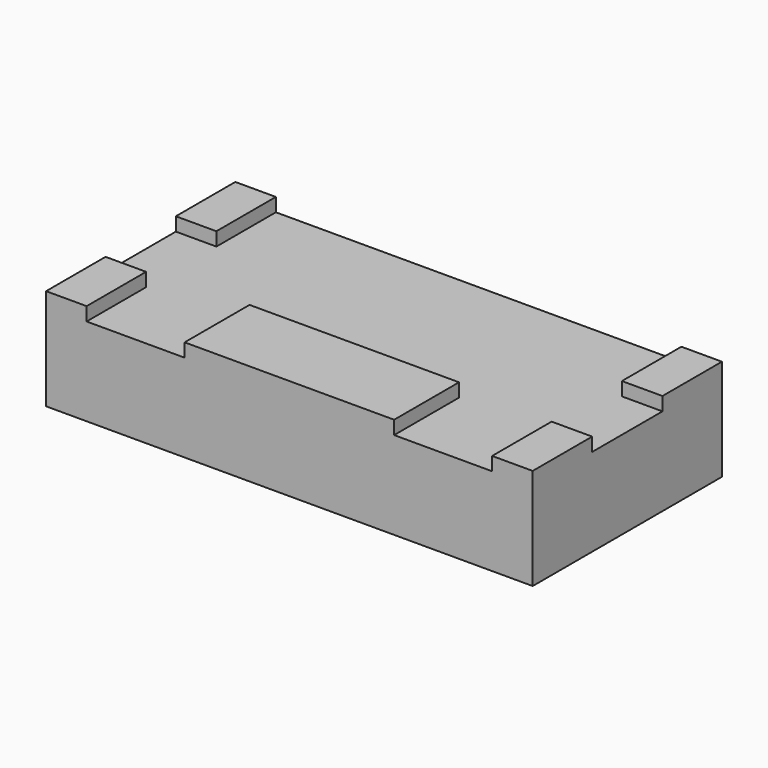
from build123d import *

# Parameters (mm, degrees)
BOX024_W     = 3.1
BOX024_H     = 1.2
BOX024_DEPTH = 0.2
BOX023_W     = 0.6
BOX023_H     = 1.1
BOX023_DEPTH = 0.2
BOX022_W     = 0.6
BOX022_H     = 1.1
BOX022_DEPTH = 0.2
BOX021_W     = 0.6
BOX021_H     = 1.1
BOX021_DEPTH = 0.2
BOX020_W     = 0.6
BOX020_H     = 1.1
BOX020_DEPTH = 0.2
BOX025_W     = 7.2
BOX025_H     = 3.5
BOX025_DEPTH = 0.2
BOX_W        = 7.2
BOX_H        = 3.5
BOX_DEPTH    = 1.5


with BuildPart() as cube024:
    # Box024 → Box024 (new body)
    with BuildSketch(Plane(origin=(2.05, 0, 1.3), x_dir=(1, 0, 0), z_dir=(0, 0, 1))):
        with Locations((1.55, 0.6)):
            Rectangle(BOX024_W, BOX024_H)
    extrude(amount=BOX024_DEPTH)


with BuildPart() as cube023:
    # Box023 → Box023 (new body)
    with BuildSketch(Plane(origin=(0, 2.4, 1.3), x_dir=(1, 0, 0), z_dir=(0, 0, 1))):
        with Locations((0.3, 0.55)):
            Rectangle(BOX023_W, BOX023_H)
    extrude(amount=BOX023_DEPTH)


with BuildPart() as cube022:
    # Box022 → Box022 (new body)
    with BuildSketch(Plane.XY.offset(1.3)):
        with Locations((0.3, 0.55)):
            Rectangle(BOX022_W, BOX022_H)
    extrude(amount=BOX022_DEPTH)


with BuildPart() as cube021:
    # Box021 → Box021 (new body)
    with BuildSketch(Plane(origin=(6.6, 2.4, 1.3), x_dir=(1, 0, 0), z_dir=(0, 0, 1))):
        with Locations((0.3, 0.55)):
            Rectangle(BOX021_W, BOX021_H)
    extrude(amount=BOX021_DEPTH)


with BuildPart() as cube020:
    # Box020 → Box020 (new body)
    with BuildSketch(Plane(origin=(6.6, 0, 1.3), x_dir=(1, 0, 0), z_dir=(0, 0, 1))):
        with Locations((0.3, 0.55)):
            Rectangle(BOX020_W, BOX020_H)
    extrude(amount=BOX020_DEPTH)


with BuildPart() as silver_top001:
    # Box025 → Box025 (new body)
    with BuildSketch(Plane.XY.offset(1.3)):
        with Locations((3.6, 1.75)):
            Rectangle(BOX025_W, BOX025_H)
    extrude(amount=BOX025_DEPTH)

    # Cut005: cut Cube020
    add(cube020.part, mode=Mode.SUBTRACT)

    # Cut009: cut Cube021
    add(cube021.part, mode=Mode.SUBTRACT)

    # Cut006: cut Cube022
    add(cube022.part, mode=Mode.SUBTRACT)

    # Cut008: cut Cube023
    add(cube023.part, mode=Mode.SUBTRACT)

    # Cut007: cut Cube024
    add(cube024.part, mode=Mode.SUBTRACT)


with BuildPart() as plastic_body:
    # Box → Box (new body)
    with BuildSketch(Plane.XY):
        with Locations((3.6, 1.75)):
            Rectangle(BOX_W, BOX_H)
    extrude(amount=BOX_DEPTH)

    # Cut010: cut Silver Top001
    add(silver_top001.part, mode=Mode.SUBTRACT)


solid = plastic_body.part
